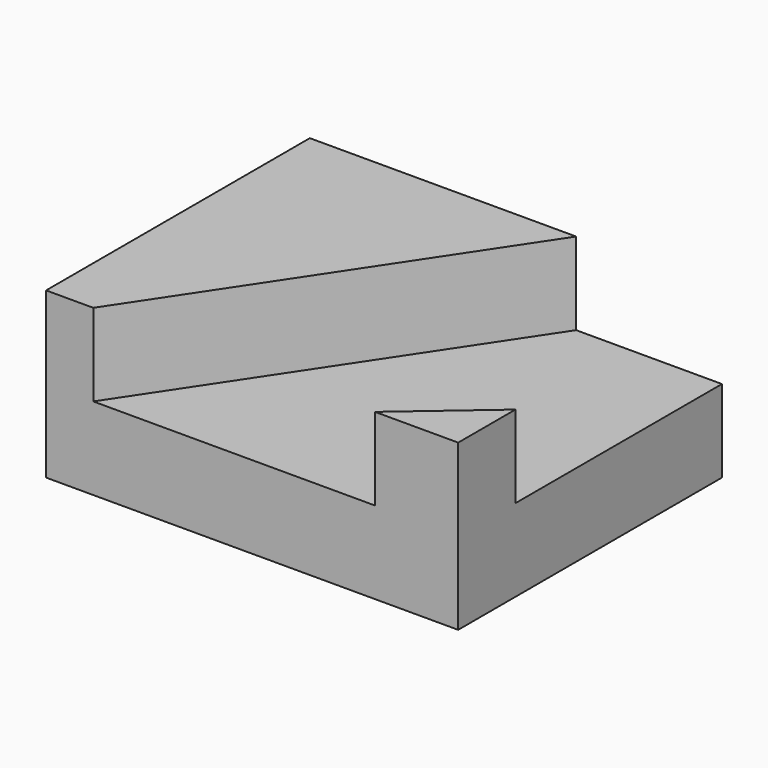
from build123d import *

# Parameters (mm, degrees)
F0_W     = 63.5
F0_H     = 50.8
F1_DEPTH = 25.4
F3_DEPTH = 12.7


with BuildPart() as f1:
    # F0 (on Top) → F1 (new body)
    with BuildSketch(Plane.XY):
        with Locations((-3.610867, -21.661018)):
            Rectangle(F0_W, F0_H)
    extrude(amount=F1_DEPTH)

    # F2 (on face) → F3 (cut)
    with BuildSketch(Plane.XY.offset(25.4)):
        Polygon((28.139133, 3.738982), (5.67447, 3.738982), (-28.088616, -47.061018), (15.321064, -47.061018), (28.139133, -36.032874), align=None)
    extrude(amount=-F3_DEPTH, mode=Mode.SUBTRACT)


solid = f1.part
